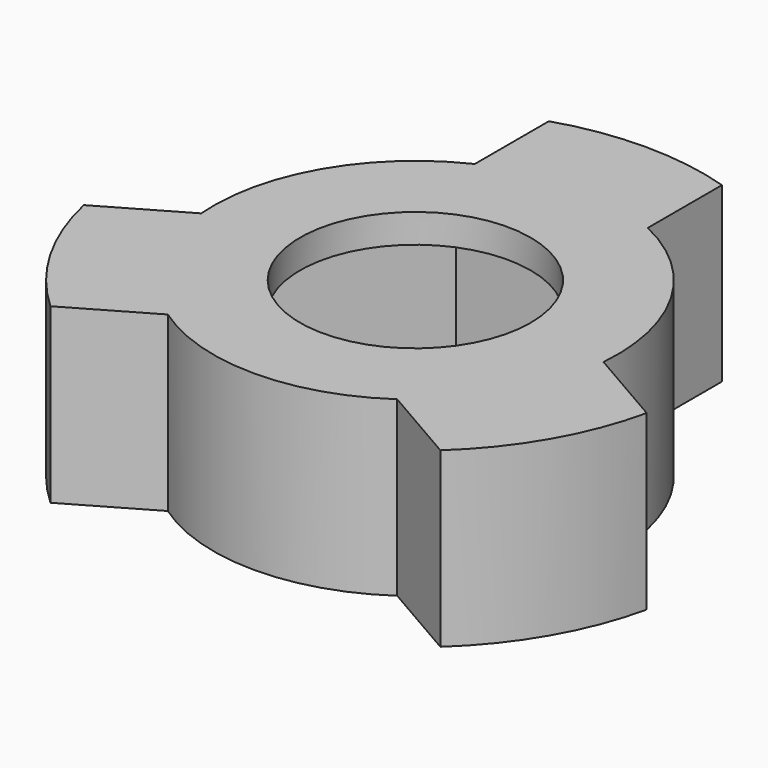
from build123d import *

# Parameters (mm, degrees)
F0_R     = 4
F1_DEPTH = 6
F3_DEPTH = 5


with BuildPart() as f1:
    # F0 (on Top) → F1 (new body)
    with BuildSketch(Plane.XY):
        with BuildLine():
            Line((-6.977226, -0.564201), (-9.761356, -2.17162))
            ThreePointArc((-9.761356, -2.17162), (-8.660254, -5), (-6.761356, -7.367772))
            Line((-6.761356, -7.367772), (-3.977226, -5.760354))
            ThreePointArc((-3.977226, -5.760354), (0, -7), (3.977226, -5.760354))
            Line((3.977226, -5.760354), (6.761356, -7.367772))
            ThreePointArc((6.761356, -7.367772), (8.660254, -5), (9.761356, -2.17162))
            Line((9.761356, -2.17162), (6.977226, -0.564201))
            ThreePointArc((6.977226, -0.564201), (6.062178, 3.5), (3, 6.324555))
            Line((3, 6.324555), (3, 9.539392))
            ThreePointArc((3, 9.539392), (0, 10), (-3, 9.539392))
            Line((-3, 9.539392), (-3, 6.324555))
            ThreePointArc((-3, 6.324555), (-6.062178, 3.5), (-6.977226, -0.564201))
        make_face()
        Circle(F0_R, mode=Mode.SUBTRACT)
    extrude(amount=F1_DEPTH)

    # F2 (on Top) → F3 (cut)
    with BuildSketch(Plane.XY):
        Polygon((3.15, 5.6), (0, 5.6), (-3.066838, 5.6), (-6.3, 0), (-3.066838, -5.6), (0, -5.6), (3.15, -5.6), (6.3, 0), align=None)
    extrude(amount=F3_DEPTH, mode=Mode.SUBTRACT)


solid = f1.part
